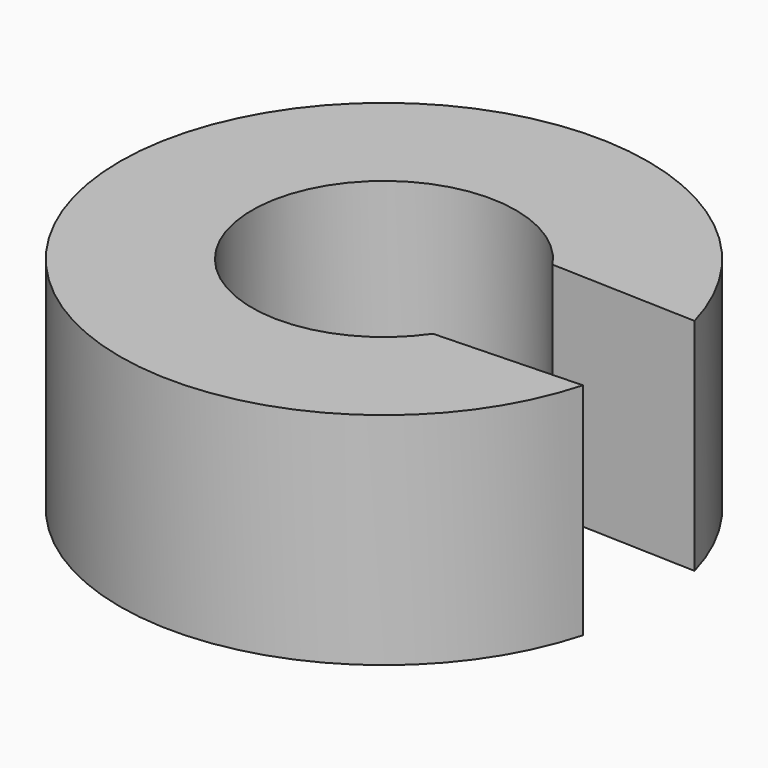
from build123d import *

# Parameters (mm, degrees)
F1_DEPTH      = 25
F2_R          = 3.175
F3_DEPTH      = 10
F3_DEPTH_BACK = 30.001


with BuildPart() as f1:
    # F0 (on Top) → F1 (new body)
    with BuildSketch(Plane.XY):
        with BuildLine():
            ThreePointArc((12.359207, -8.5), (-15, 0), (12.359207, 8.5))
            Line((12.359207, 8.5), (28.935366, 7.921148))
            ThreePointArc((28.935366, 7.921148), (-30, 0), (28.935366, -7.921148))
            Line((28.935366, -7.921148), (12.359207, -8.5))
        make_face()
    extrude(amount=F1_DEPTH)

    # F2 (on Front) → F3 (cut, two sides)
    with BuildSketch(Plane.XZ) as f3_sk:
        with Locations((-22.5, 12.5)):
            Circle(F2_R)
    extrude(amount=F3_DEPTH, mode=Mode.SUBTRACT)
    extrude(f3_sk.sketch, amount=-F3_DEPTH_BACK, mode=Mode.SUBTRACT)


solid = f1.part
